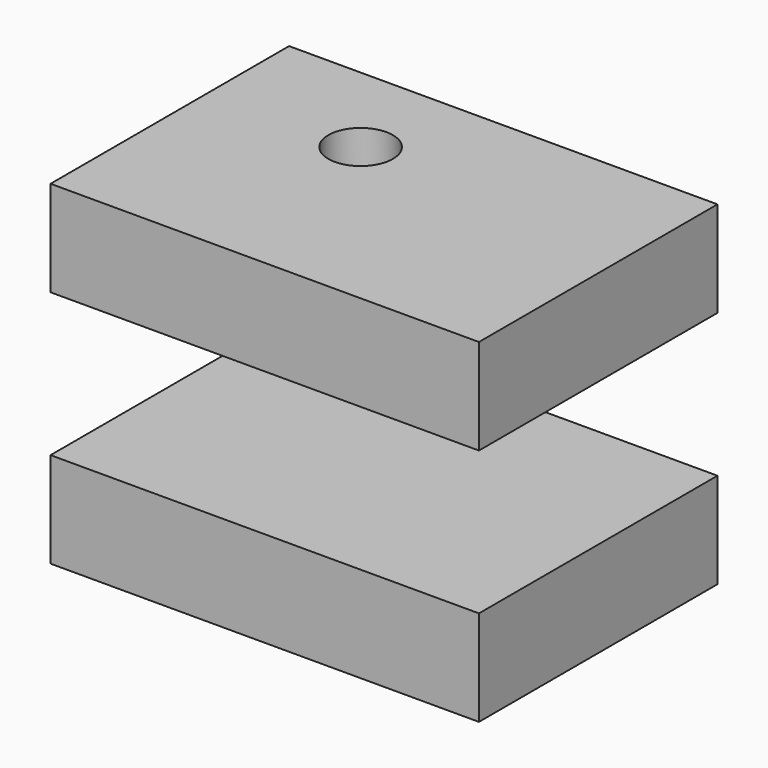
from build123d import *

# Parameters (mm, degrees)
F0_W     = 44.8315404356
F0_H     = 31.1993751675
F1_DEPTH = 10
F3_W     = 44.8315404356
F3_H     = 31.1993751675
F4_DEPTH = 10
F6_D     = 6.7564
F6_DEPTH = 5
F6_TIP   = 2.0298273432


with BuildPart() as f1:
    # F0 (on Top) → F1 (new body)
    with BuildSketch(Plane.XY):
        Rectangle(F0_W, F0_H)
    extrude(amount=F1_DEPTH)


with BuildPart() as f4:
    # F3 (on offset) → F4 (new body)
    with BuildSketch(Plane.XY.offset(25)):
        Rectangle(F3_W, F3_H)
    extrude(amount=F4_DEPTH)

    # F6
    with Locations(Plane.XY.offset(35)):
        with Locations((-6.6936477087, 5.3070797585)):
            Hole(F6_D / 2, depth=F6_DEPTH)
            with Locations((0, 0, -(F6_DEPTH + F6_TIP / 2))):  # 118° drill point
                Cone(0, F6_D / 2, F6_TIP, mode=Mode.SUBTRACT)


solid = Compound([f1.part, f4.part])
